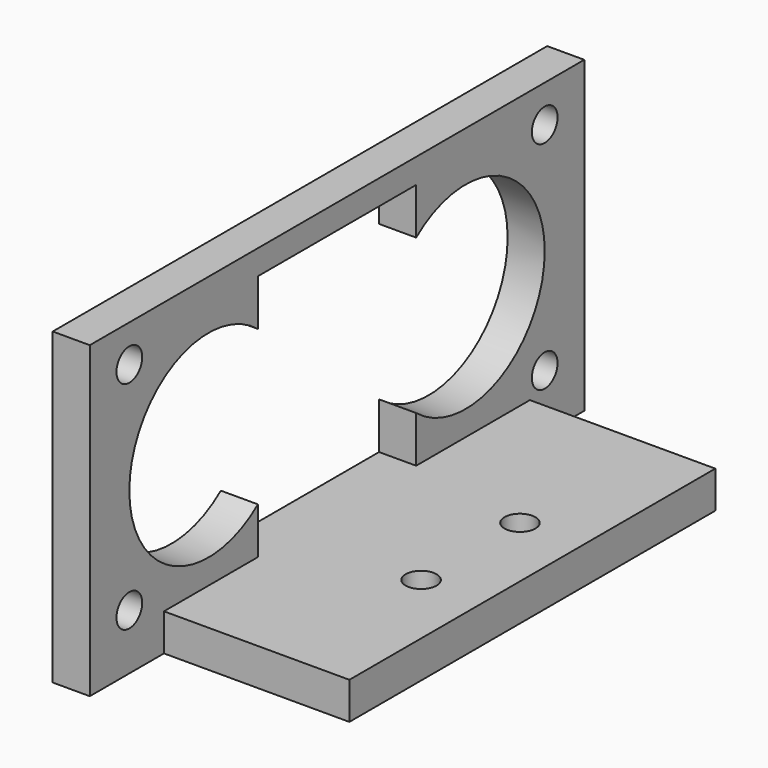
from build123d import *

# Parameters (mm, degrees)
SKETCH002_W     = 50
SKETCH002_H     = 25
PAD_DEPTH       = 3
SKETCH003_R     = 8
SKETCH003_R_2   = 1.3
POCKET_DEPTH    = 3.001
SKETCH004_W     = 16
SKETCH004_H     = 20
POCKET001_DEPTH = 3.001
SKETCH_W        = 15
SKETCH_H        = 37
PAD001_DEPTH    = 3
SKETCH001_R     = 1.25
POCKET002_DEPTH = 3.001


with BuildPart() as part:
    # Sketch002 → Pad (new body)
    with BuildSketch(Plane.YZ):
        with Locations((17.5, 9.5)):
            Rectangle(SKETCH002_W, SKETCH002_H)
    extrude(amount=-PAD_DEPTH)

    # Sketch003 → Pocket (cut, through all)
    with BuildSketch(Plane.YZ):
        with Locations((4.5, 10)):
            Circle(SKETCH003_R)
        with Locations((30.5, 10)):
            Circle(SKETCH003_R)
        with Locations((-3.5, 19)):
            Circle(SKETCH003_R_2)
        with Locations((38.5, 19)):
            Circle(SKETCH003_R_2)
        with Locations((38.5, 1.5)):
            Circle(SKETCH003_R_2)
        with Locations((-3.5, 1.5)):
            Circle(SKETCH003_R_2)
    extrude(amount=-POCKET_DEPTH, mode=Mode.SUBTRACT)

    # Sketch004 → Pocket001 (cut, through all)
    with BuildSketch(Plane.YZ):
        with Locations((17.5, 10)):
            Rectangle(SKETCH004_W, SKETCH004_H)
    extrude(amount=-POCKET001_DEPTH, mode=Mode.SUBTRACT)

    # Sketch → Pad001 (join)
    with BuildSketch(Plane.XY):
        with Locations((7.5, 18.5)):
            Rectangle(SKETCH_W, SKETCH_H)
    extrude(amount=-PAD001_DEPTH)

    # Sketch001 → Pocket002 (cut, through all)
    with BuildSketch(Plane.XY):
        with Locations((10, 23.5)):
            Circle(SKETCH001_R)
        with Locations((10, 13.5)):
            Circle(SKETCH001_R)
    extrude(amount=-POCKET002_DEPTH, mode=Mode.SUBTRACT)


solid = part.part
